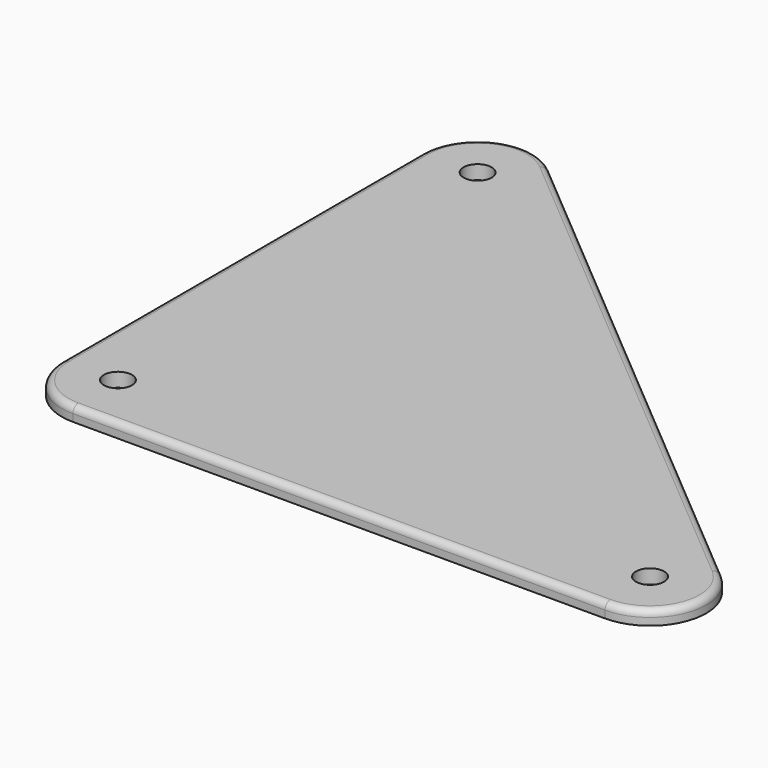
from build123d import *

# Parameters (mm, degrees)
F0_R     = 3.175
F1_DEPTH = 3.175
F2_R     = 1.524


with BuildPart() as f1:
    # F0 (on Top) → F1 (new body)
    with BuildSketch(Plane.XY):
        with BuildLine():
            Line((-71.123174, -70.829025), (49.116155, -70.829025))
            ThreePointArc((49.116155, -70.829025), (61.042759, -62.493211), (57.312992, -48.428414))
            Line((57.312992, -48.428414), (-62.926338, 53.171586))
            ThreePointArc((-62.926338, 53.171586), (-76.470612, 54.990303), (-83.823174, 43.470975))
            Line((-83.823174, 43.470975), (-83.823174, -58.129025))
            ThreePointArc((-83.823174, -58.129025), (-80.10343, -67.109281), (-71.123174, -70.829025))
        make_face()
        with Locations((-71.123174, -58.129025)):
            Circle(F0_R, mode=Mode.SUBTRACT)
        with Locations((49.116155, -58.129025)):
            Circle(F0_R, mode=Mode.SUBTRACT)
        with Locations((-71.123174, 43.470975)):
            Circle(F0_R, mode=Mode.SUBTRACT)
    extrude(amount=F1_DEPTH)

    # F2
    f2_edges = [f1.edges().sort_by_distance(p)[0] for p in [
        (-83.823174, -7.329025, 3.175),
    ]]
    fillet(f2_edges, radius=F2_R)


solid = f1.part
